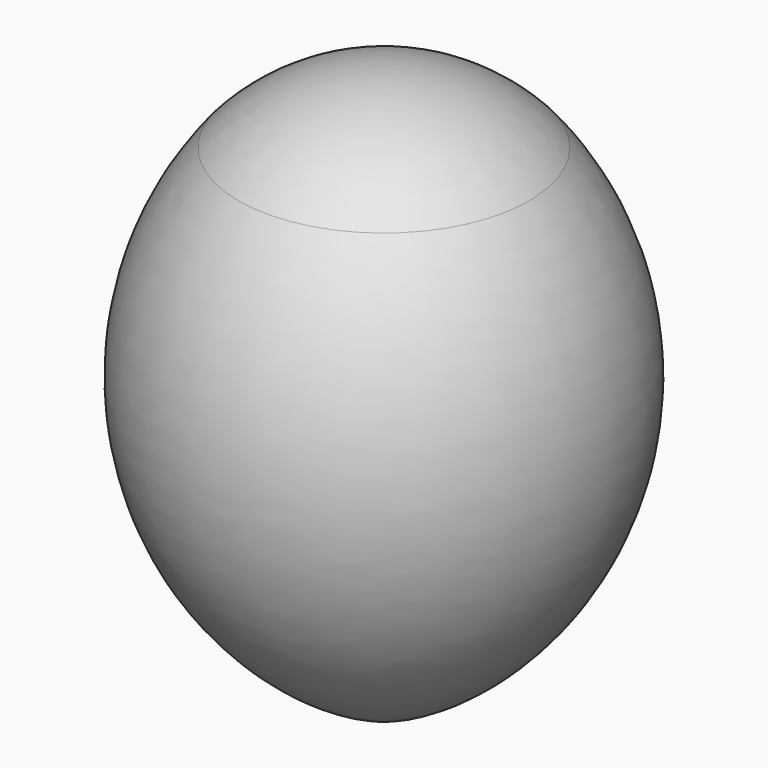
from build123d import *


with BuildPart() as f1:
    # F0 (on Front) → F1 (revolve)
    with BuildSketch(Plane.XZ):
        with BuildLine():
            Line((0, -95.169514), (0, 124.830486))
            ThreePointArc((0, 124.830486), (-31.47591, 118.197615), (-57.598598, 99.427078))
            ThreePointArc((-57.598598, 99.427078), (-83.419095, -8.193859), (-13.521783, -94.003706))
            ThreePointArc((-13.521783, -94.003706), (-6.785973, -94.877523), (0, -95.169514))
        make_face()
    revolve(axis=Axis((0, 0, 14.830486), (0, 0, -1)))


solid = f1.part
